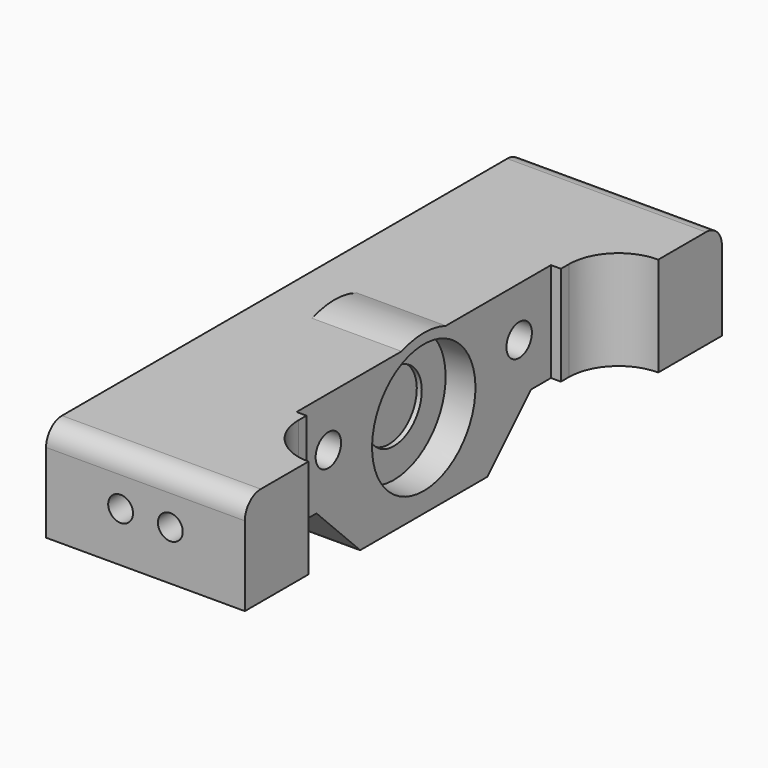
from build123d import *

# Parameters (mm, degrees)
BOX035_W          = 5
BOX035_H          = 60
BOX035_DEPTH      = 10
BOX033_W          = 5
BOX033_H          = 8
BOX033_DEPTH      = 10
FILLET011_R       = 2
BOX034_W          = 5
BOX034_H          = 8
BOX034_DEPTH      = 10
FILLET012_R       = 2
BOX030_W          = 1
BOX030_H          = 32
BOX030_DEPTH      = 22
CYLINDER072_R     = 1.6
CYLINDER072_DEPTH = 10
CYLINDER071_R     = 1.6
CYLINDER071_DEPTH = 10
CYLINDER062_R     = 1.25
CYLINDER062_DEPTH = 10
CYLINDER060_R     = 1.25
CYLINDER060_DEPTH = 10
CYLINDER061_R     = 1.25
CYLINDER061_DEPTH = 10
CYLINDER059_R     = 1.25
CYLINDER059_DEPTH = 10
CYLINDER047_R     = 3.5
CYLINDER047_DEPTH = 4
CYLINDER045_R     = 6.5
CYLINDER045_DEPTH = 4
BOX031_W          = 15
BOX031_H          = 16
BOX031_DEPTH      = 5.5
CYLINDER046_R     = 8
CYLINDER046_DEPTH = 10
BOX021_W          = 10
BOX021_H          = 60
BOX021_DEPTH      = 10
BOX032_W          = 5
BOX032_H          = 60
BOX032_DEPTH      = 10
FILLET010_R       = 2
CHAMFER002_SIZE   = 5.49
FILLET013_R       = 4.99


with BuildPart() as cube014:
    # Box035 → Box035 (new body)
    with BuildSketch(Plane(origin=(75, 1, -1), x_dir=(1, 0, 0), z_dir=(0, 0, 1))):
        with Locations((2.5, 30)):
            Rectangle(BOX035_W, BOX035_H)
    extrude(amount=BOX035_DEPTH)


with BuildPart() as fillet011:
    # Box033 → Box033 (new body)
    with BuildSketch(Plane(origin=(90, 1, 9), x_dir=(1, 0, 0), z_dir=(0, 0, 1))):
        with Locations((2.5, 4)):
            Rectangle(BOX033_W, BOX033_H)
    extrude(amount=BOX033_DEPTH)

    # Fillet011
    fillet011_edges = [fillet011.edges().sort_by_distance(p)[0] for p in [
        (92.5, 1, 19),
    ]]
    fillet(fillet011_edges, radius=FILLET011_R)


with BuildPart() as fillet012:
    # Box034 → Box034 (new body)
    with BuildSketch(Plane(origin=(90, 53, 9), x_dir=(1, 0, 0), z_dir=(0, 0, 1))):
        with Locations((2.5, 4)):
            Rectangle(BOX034_W, BOX034_H)
    extrude(amount=BOX034_DEPTH)

    # Fillet012
    fillet012_edges = [fillet012.edges().sort_by_distance(p)[0] for p in [
        (92.5, 61, 19),
    ]]
    fillet(fillet012_edges, radius=FILLET012_R)


with BuildPart() as cube009:
    # Box030 → Box030 (new body)
    with BuildSketch(Plane(origin=(89, 15, 2), x_dir=(1, 0, 0), z_dir=(0, 0, 1))):
        with Locations((0.5, 16)):
            Rectangle(BOX030_W, BOX030_H)
    extrude(amount=BOX030_DEPTH)


with BuildPart() as cylinder072:
    # Cylinder072 → Cylinder072 (new body)
    with BuildSketch(Plane(origin=(80, 43, 14), x_dir=(0, 0, -1), z_dir=(1, 0, 0))):
        Circle(CYLINDER072_R)
    extrude(amount=CYLINDER072_DEPTH)


with BuildPart() as fusion068:
    # Cylinder071 → Cylinder071 (new body)
    with BuildSketch(Plane(origin=(80, 19, 14), x_dir=(0, 0, -1), z_dir=(1, 0, 0))):
        Circle(CYLINDER071_R)
    extrude(amount=CYLINDER071_DEPTH)

    # Fusion068: union Cylinder072
    add(cylinder072.part)


with BuildPart() as cylinder062:
    # Cylinder062 → Cylinder062 (new body)
    with BuildSketch(Plane(origin=(87.5, 61, 14), x_dir=(1, 0, 0), z_dir=(0, -1, 0))):
        Circle(CYLINDER062_R)
    extrude(amount=CYLINDER062_DEPTH)


with BuildPart() as fusion046:
    # Cylinder060 → Cylinder060 (new body)
    with BuildSketch(Plane(origin=(87.5, 11, 14), x_dir=(1, 0, 0), z_dir=(0, -1, 0))):
        Circle(CYLINDER060_R)
    extrude(amount=CYLINDER060_DEPTH)

    # Fusion046: union Cylinder062
    add(cylinder062.part)


with BuildPart() as cylinder061:
    # Cylinder061 → Cylinder061 (new body)
    with BuildSketch(Plane(origin=(82.5, 61, 14), x_dir=(1, 0, 0), z_dir=(0, -1, 0))):
        Circle(CYLINDER061_R)
    extrude(amount=CYLINDER061_DEPTH)


with BuildPart() as fusion048:
    # Cylinder059 → Cylinder059 (new body)
    with BuildSketch(Plane(origin=(82.5, 11, 14), x_dir=(1, 0, 0), z_dir=(0, -1, 0))):
        Circle(CYLINDER059_R)
    extrude(amount=CYLINDER059_DEPTH)

    # Fusion045: union Cylinder061
    add(cylinder061.part)

    # Fusion048: union Fusion046
    add(fusion046.part)


with BuildPart() as cylinder047:
    # Cylinder047 → Cylinder047 (new body)
    with BuildSketch(Plane(origin=(89.5, 31, 10), x_dir=(0, 0, -1), z_dir=(1, 0, 0))):
        Circle(CYLINDER047_R)
    extrude(amount=CYLINDER047_DEPTH)


with BuildPart() as fusion037:
    # Cylinder045 → Cylinder045 (new body)
    with BuildSketch(Plane(origin=(90, 31, 10), x_dir=(0, 0, -1), z_dir=(1, 0, 0))):
        Circle(CYLINDER045_R)
    extrude(amount=CYLINDER045_DEPTH)

    # Fusion037: union Cylinder047
    add(cylinder047.part)


with BuildPart() as fusion037_1:
    # Fusion037 placement: moved
    add(fusion037.part.moved(Location((-4, 0, 2))))


with BuildPart() as cube010:
    # Box031 → Box031 (new body)
    with BuildSketch(Plane(origin=(75, 23, 3.5), x_dir=(1, 0, 0), z_dir=(0, 0, 1))):
        with Locations((7.5, 8)):
            Rectangle(BOX031_W, BOX031_H)
    extrude(amount=BOX031_DEPTH)


with BuildPart() as cylinder046:
    # Cylinder046 → Cylinder046 (new body)
    with BuildSketch(Plane(origin=(80, 31, 11.5), x_dir=(0, 0, -1), z_dir=(1, 0, 0))):
        Circle(CYLINDER046_R)
    extrude(amount=CYLINDER046_DEPTH)


with BuildPart() as fusion038:
    # Box021 → Box021 (new body)
    with BuildSketch(Plane(origin=(80, 1, 9), x_dir=(1, 0, 0), z_dir=(0, 0, 1))):
        with Locations((5, 30)):
            Rectangle(BOX021_W, BOX021_H)
    extrude(amount=BOX021_DEPTH)

    # Fusion038: union Cylinder046
    add(cylinder046.part)


with BuildPart() as front_threaded_bar_support:
    # Box032 → Box032 (new body)
    with BuildSketch(Plane(origin=(75, 1, 9), x_dir=(1, 0, 0), z_dir=(0, 0, 1))):
        with Locations((2.5, 30)):
            Rectangle(BOX032_W, BOX032_H)
    extrude(amount=BOX032_DEPTH)

    # Fusion069: union Cube010, Fusion038
    add(cube010.part)
    add(fusion038.part)

    # Cut037: cut Fusion037
    add(fusion037_1.part, mode=Mode.SUBTRACT)

    # Cut038: cut Fusion048
    add(fusion048.part, mode=Mode.SUBTRACT)

    # Cut039: cut Fusion068
    add(fusion068.part, mode=Mode.SUBTRACT)

    # Cut040: cut Cube009
    add(cube009.part, mode=Mode.SUBTRACT)

    # Fillet010
    fillet010_edges = [front_threaded_bar_support.edges().sort_by_distance(p)[0] for p in [
        (82.5, 1, 19),
        (82.5, 61, 19),
    ]]
    fillet(fillet010_edges, radius=FILLET010_R)

    # Chamfer002
    chamfer002_edges = [front_threaded_bar_support.edges().sort_by_distance(p)[0] for p in [
        (82, 23, 9),
        (82, 39, 9),
    ]]
    chamfer(chamfer002_edges, length=CHAMFER002_SIZE)

    # Fusion070: union Fillet011, Fillet012
    add(fillet011.part)
    add(fillet012.part)

    # Fillet013
    fillet013_edges = [front_threaded_bar_support.edges().sort_by_distance(p)[0] for p in [
        (90, 53, 14),
        (90, 9, 14),
    ]]
    fillet(fillet013_edges, radius=FILLET013_R)

    # Cut041: cut Cube014
    add(cube014.part, mode=Mode.SUBTRACT)


with BuildPart() as front_threaded_bar_support_1:
    # Cut041 placement: moved
    add(front_threaded_bar_support.part.moved(Location((54, 0, 0))))


solid = front_threaded_bar_support_1.part
